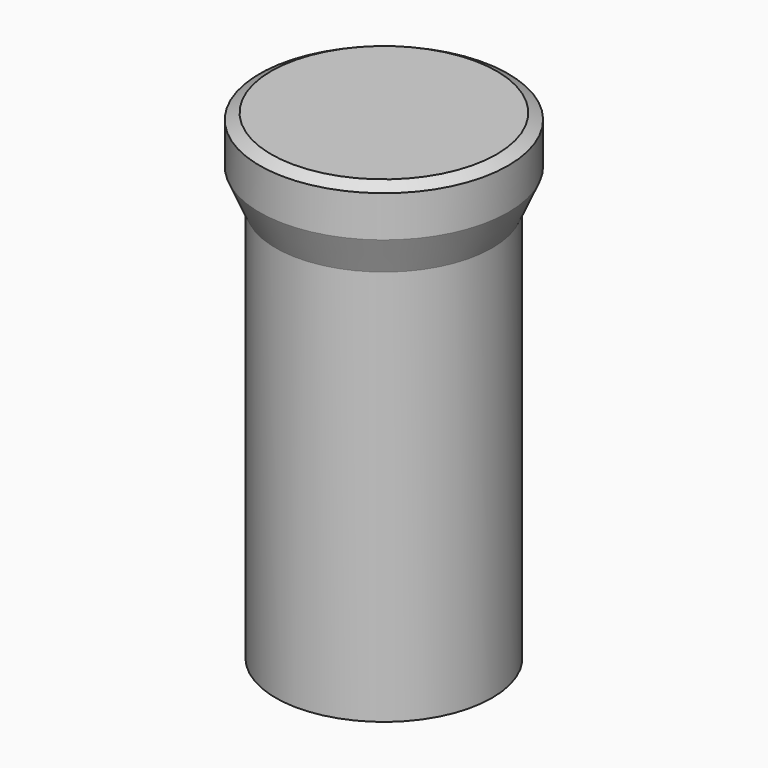
from build123d import *

# Parameters (mm, degrees)
F0_R      = 19.4437
F2_R      = 21.4376
F4_DEPTH  = 7.0866
F4_FACE_R = 21.4376
F6_R      = 18.6563
F8_DEPTH  = 68.2752


with BuildPart() as f3:
    # F0 (on Top) → F3 section 0
    with BuildSketch(Plane.XY):
        Circle(F0_R)
    # F2 (on offset) → F3 section 1
    with BuildSketch(Plane.XY.offset(-1.0668)):
        Circle(F2_R)
    loft()

    # F4 (add): a face of the model
    f4_faces = [f3.faces().sort_by_distance(p)[0] for p in [
        (0, 0, -1.0668),
    ]]
    extrude(f4_faces, amount=F4_DEPTH)

    # F4_face (on face) → F7 section 0
    with BuildSketch(Plane(origin=(0, 0, -8.1534), x_dir=(1, 0, 0), z_dir=(0, 0, -1))):
        Circle(F4_FACE_R)
    # F6 (on offset) → F7 section 1
    with BuildSketch(Plane(origin=(0, 0, -14.5034), x_dir=(1, 0, 0), z_dir=(0, 0, -1))):
        Circle(F6_R)
    loft()


with BuildPart() as f8:
    # F8 (new): a face of the model
    f8_faces = [f3.part.faces().sort_by_distance(p)[0] for p in [
        (0, 0, -14.5034),
    ]]
    extrude(f8_faces, amount=F8_DEPTH)


solid = Compound([f3.part, f8.part])
